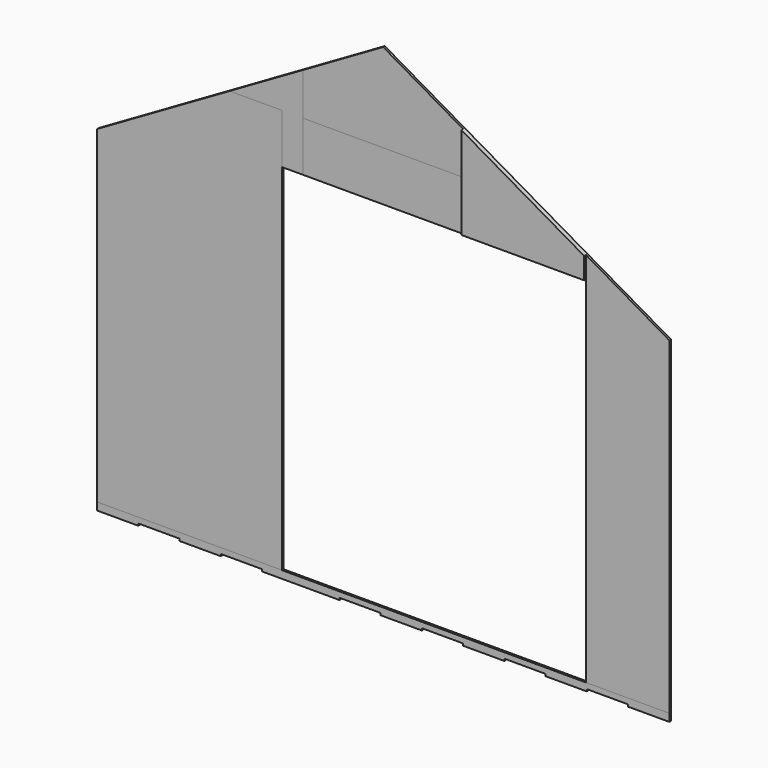
from build123d import *

# Parameters (mm, degrees)
F1_DEPTH = 12
F2_DEPTH = 12
F3_DEPTH = 12
F4_DEPTH = 12
F0_W     = 127
F0_H     = 295
F5_DEPTH = 12
F6_DEPTH = 25
F7_DEPTH = 12


with BuildPart() as f1:
    # F0 (on Front) → F1 (new body)
    with BuildSketch(Plane.XZ):
        Polygon((-2127.1608864989, -580.3215209696), (-1034.1608864989, -580.3215209696), (-1034.1608864989, 1519.6784790304), (-1034.1608864989, 1814.6784790304), (-1343.4224964989, 1814.6784790304), (-2127.1608864989, 1362.1869085897), align=None)
    extrude(amount=F1_DEPTH)


with BuildPart() as f2:
    # F0 (on Front) → F2 (new body)
    with BuildSketch(Plane.XZ):
        Polygon((765.8391135011, 1519.6784790304), (765.8391135011, -580.3215209696), (1258.8391135011, -580.3215209696), (1258.8391135011, 1362.1869085897), (765.8391135011, 1646.8205913001), align=None)
        Polygon((38.8391135011, 1814.6784790304), (38.8391135011, 1519.6784790304), (765.8391135011, 1519.6784790304), (765.8391135011, 1646.8205913001), (475.1007235011, 1814.6784790304), align=None)
    extrude(amount=F2_DEPTH)


with BuildPart() as f3:
    # F0 (on Front) → F3 (new body)
    with BuildSketch(Plane.XZ):
        Polygon((-907.1608864989, 1814.6784790304), (38.8391135011, 1814.6784790304), (38.8391135011, 2066.554237001), (-434.1608864989, 2339.6409143277), (-907.1608864989, 2066.554237001), align=None)
    extrude(amount=F3_DEPTH)


with BuildPart() as f4:
    # F0 (on Front) → F4 (new body)
    with BuildSketch(Plane.XZ):
        Polygon((-434.1608864989, 1519.6784790304), (38.8391135011, 1519.6784790304), (38.8391135011, 1814.6784790304), (-907.1608864989, 1814.6784790304), (-907.1608864989, 1519.6784790304), align=None)
    extrude(amount=F4_DEPTH)


with BuildPart() as f5:
    # F0 (on Front) → F5 (new body)
    with BuildSketch(Plane.XZ):
        Polygon((-1034.1608864989, 1814.6784790304), (-907.1608864989, 1814.6784790304), (-907.1608864989, 2066.554237001), (-1343.4224964989, 1814.6784790304), align=None)
        with Locations((-970.6608864989, 1667.1784790304)):
            Rectangle(F0_W, F0_H)
    extrude(amount=F5_DEPTH)


with BuildPart() as f6:
    # F0 (on Front) → F6 (new body)
    with BuildSketch(Plane.XZ):
        Polygon((38.8391135011, 2066.554237001), (38.8391135011, 1814.6784790304), (475.1007235011, 1814.6784790304), align=None)
        Polygon((38.8391135011, 1814.6784790304), (38.8391135011, 1519.6784790304), (765.8391135011, 1519.6784790304), (765.8391135011, 1646.8205913001), (475.1007235011, 1814.6784790304), align=None)
    extrude(amount=F6_DEPTH)


with BuildPart() as f7:
    # F0 (on Front) → F7 (new body)
    with BuildSketch(Plane.XZ):
        Polygon((-907.1608864989, -625.3215209696), (-907.1608864989, -580.3215209696), (-1034.1608864989, -580.3215209696), (-2127.1608864989, -580.3215209696), (-2127.1608864989, -625.3215209696), (-1883.1608864989, -625.3215209696), (-1883.1608864989, -613.3215209696), (-1639.1608864989, -613.3215209696), (-1639.1608864989, -625.3215209696), (-1395.1608864989, -625.3215209696), (-1395.1608864989, -613.3215209696), (-1151.1608864989, -613.3215209696), (-1151.1608864989, -625.3215209696), align=None)
        Polygon((-205.1608864989, -613.3215209696), (38.8391135011, -613.3215209696), (38.8391135011, -580.3215209696), (-907.1608864989, -580.3215209696), (-907.1608864989, -625.3215209696), (-693.1608864989, -625.3215209696), (-693.1608864989, -613.3215209696), (-449.1608864989, -613.3215209696), (-449.1608864989, -625.3215209696), (-205.1608864989, -625.3215209696), align=None)
        Polygon((38.8391135011, -613.3215209696), (38.8391135011, -625.3215209696), (282.8391135011, -625.3215209696), (282.8391135011, -613.3215209696), (526.8391135011, -613.3215209696), (526.8391135011, -625.3215209696), (770.8391135011, -625.3215209696), (770.8391135011, -613.3215209696), (1014.8391135011, -613.3215209696), (1014.8391135011, -625.3215209696), (1258.8391135011, -625.3215209696), (1258.8391135011, -580.3215209696), (765.8391135011, -580.3215209696), (38.8391135011, -580.3215209696), align=None)
    extrude(amount=F7_DEPTH)


solid = Compound([f1.part, f2.part, f3.part, f4.part, f5.part, f6.part, f7.part])
